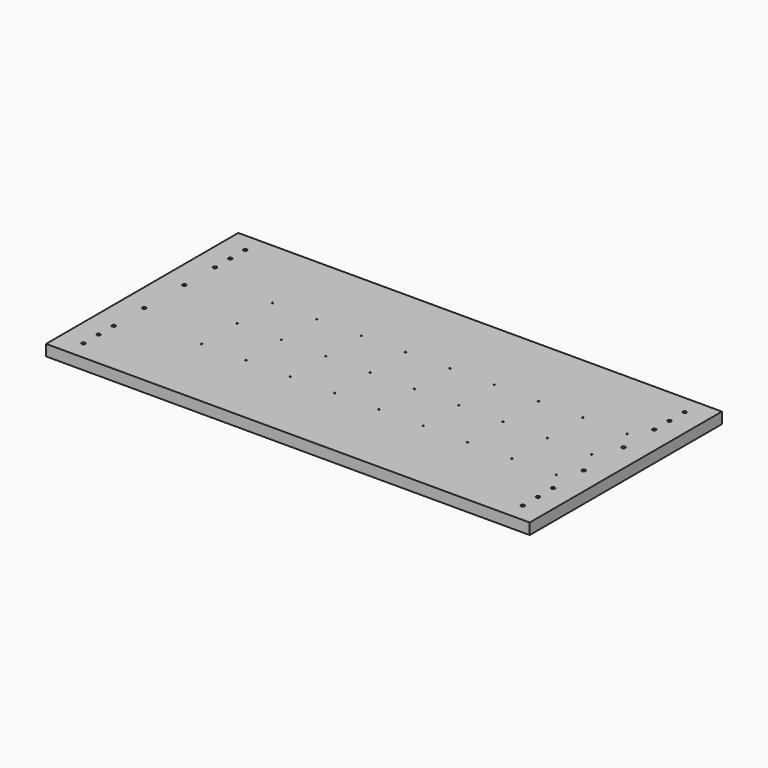
from build123d import *

# Parameters (mm, degrees)
F1_W     = 1091
F1_H     = 542
F1_R     = 4
F1_R_2   = 1.5
F2_DEPTH = 25


with BuildPart() as f2:
    # F1 (on face) → F2 (new body)
    with BuildSketch(Plane.XY):
        with Locations((545.5, 271)):
            Rectangle(F1_W, F1_H)
        with Locations((50, 42.75)):
            Circle(F1_R, mode=Mode.SUBTRACT)
        with Locations((50, 85.5)):
            Circle(F1_R, mode=Mode.SUBTRACT)
        with Locations((50, 128.25)):
            Circle(F1_R, mode=Mode.SUBTRACT)
        with Locations((214, 171)):
            Circle(F1_R_2, mode=Mode.SUBTRACT)
        with Locations((50, 214.561247)):
            Circle(F1_R, mode=Mode.SUBTRACT)
        with Locations((314, 171)):
            Circle(F1_R_2, mode=Mode.SUBTRACT)
        with Locations((414, 171)):
            Circle(F1_R_2, mode=Mode.SUBTRACT)
        with Locations((514, 171)):
            Circle(F1_R_2, mode=Mode.SUBTRACT)
        with Locations((1041, 42.75)):
            Circle(F1_R, mode=Mode.SUBTRACT)
        with Locations((1041, 85.5)):
            Circle(F1_R, mode=Mode.SUBTRACT)
        with Locations((1041, 128.25)):
            Circle(F1_R, mode=Mode.SUBTRACT)
        with Locations((614, 171)):
            Circle(F1_R_2, mode=Mode.SUBTRACT)
        with Locations((714, 171)):
            Circle(F1_R_2, mode=Mode.SUBTRACT)
        with Locations((814, 171)):
            Circle(F1_R_2, mode=Mode.SUBTRACT)
        with Locations((914, 171)):
            Circle(F1_R_2, mode=Mode.SUBTRACT)
        with Locations((1014, 171)):
            Circle(F1_R_2, mode=Mode.SUBTRACT)
        with Locations((1041, 214.561247)):
            Circle(F1_R, mode=Mode.SUBTRACT)
        with Locations((50, 327.438753)):
            Circle(F1_R, mode=Mode.SUBTRACT)
        with Locations((214, 271)):
            Circle(F1_R_2, mode=Mode.SUBTRACT)
        with Locations((214, 371)):
            Circle(F1_R_2, mode=Mode.SUBTRACT)
        with Locations((314, 271)):
            Circle(F1_R_2, mode=Mode.SUBTRACT)
        with Locations((414, 271)):
            Circle(F1_R_2, mode=Mode.SUBTRACT)
        with Locations((514, 271)):
            Circle(F1_R_2, mode=Mode.SUBTRACT)
        with Locations((314, 371)):
            Circle(F1_R_2, mode=Mode.SUBTRACT)
        with Locations((414, 371)):
            Circle(F1_R_2, mode=Mode.SUBTRACT)
        with Locations((514, 371)):
            Circle(F1_R_2, mode=Mode.SUBTRACT)
        with Locations((50, 413.75)):
            Circle(F1_R, mode=Mode.SUBTRACT)
        with Locations((50, 456.5)):
            Circle(F1_R, mode=Mode.SUBTRACT)
        with Locations((50, 499.25)):
            Circle(F1_R, mode=Mode.SUBTRACT)
        with Locations((614, 271)):
            Circle(F1_R_2, mode=Mode.SUBTRACT)
        with Locations((714, 271)):
            Circle(F1_R_2, mode=Mode.SUBTRACT)
        with Locations((814, 271)):
            Circle(F1_R_2, mode=Mode.SUBTRACT)
        with Locations((614, 371)):
            Circle(F1_R_2, mode=Mode.SUBTRACT)
        with Locations((714, 371)):
            Circle(F1_R_2, mode=Mode.SUBTRACT)
        with Locations((814, 371)):
            Circle(F1_R_2, mode=Mode.SUBTRACT)
        with Locations((914, 271)):
            Circle(F1_R_2, mode=Mode.SUBTRACT)
        with Locations((1014, 271)):
            Circle(F1_R_2, mode=Mode.SUBTRACT)
        with Locations((1041, 327.438753)):
            Circle(F1_R, mode=Mode.SUBTRACT)
        with Locations((914, 371)):
            Circle(F1_R_2, mode=Mode.SUBTRACT)
        with Locations((1014, 371)):
            Circle(F1_R_2, mode=Mode.SUBTRACT)
        with Locations((1041, 413.75)):
            Circle(F1_R, mode=Mode.SUBTRACT)
        with Locations((1041, 456.5)):
            Circle(F1_R, mode=Mode.SUBTRACT)
        with Locations((1041, 499.25)):
            Circle(F1_R, mode=Mode.SUBTRACT)
    extrude(amount=F2_DEPTH)


solid = f2.part
